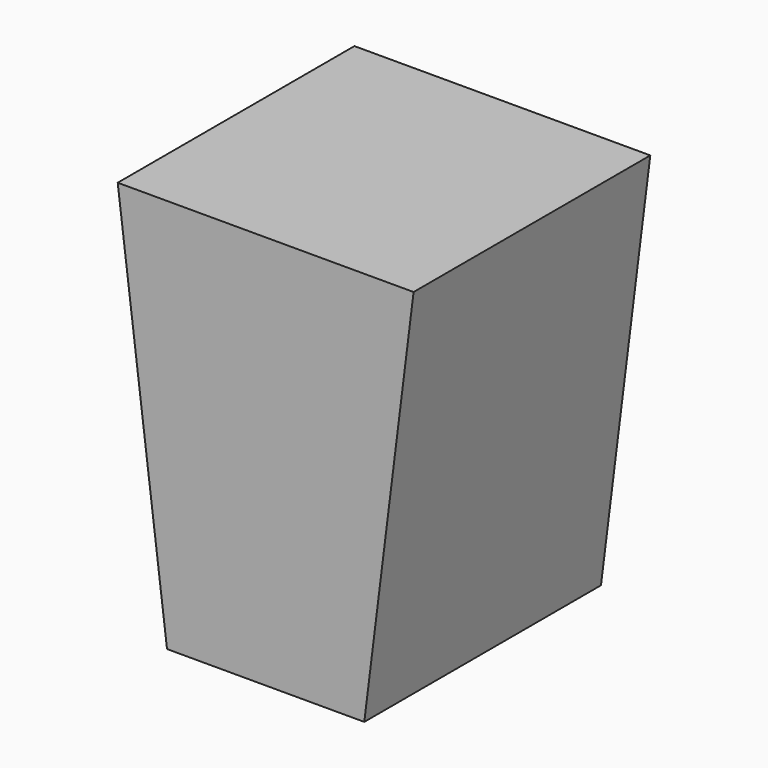
from build123d import *

# Parameters (mm, degrees)
PAD_DEPTH = 150


with BuildPart() as part:
    # Sketch → Pad (new body)
    with BuildSketch(Plane.XZ):
        Polygon((-50, 0), (50, 0), (75, 200), (-75, 200), align=None)
    extrude(amount=PAD_DEPTH)


solid = part.part
